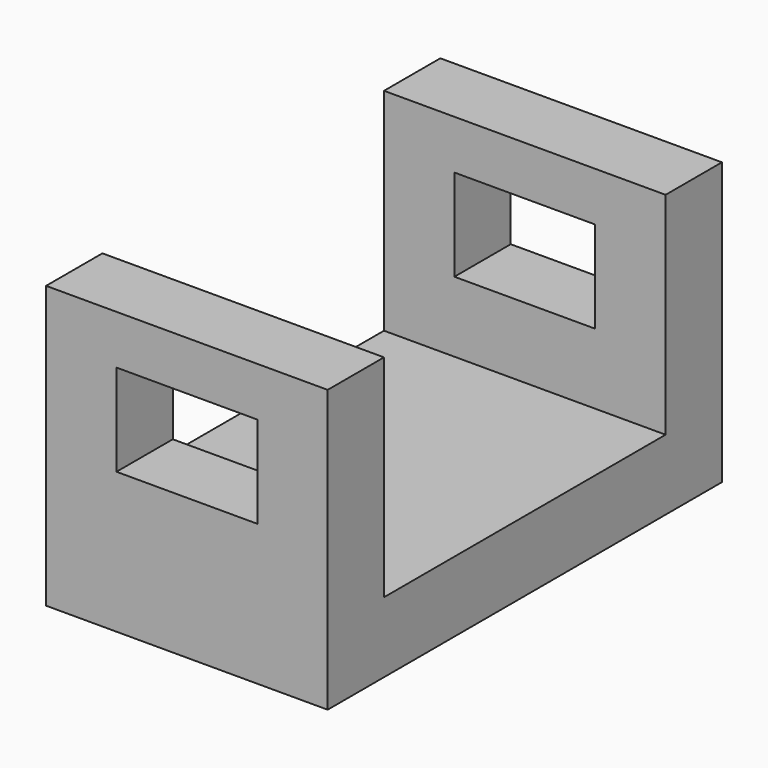
from build123d import *

# Parameters (mm, degrees)
F0_W     = 12.7
F0_H     = 12.7
F0_W_2   = 63.5
F0_H_2   = 38.1
F1_DEPTH = 50.8
F2_W     = 25.4
F2_H     = 16.551355
F3_DEPTH = 88.9


with BuildPart() as f1:
    # F0 (on Right) → F1 (new body)
    with BuildSketch(Plane.YZ):
        with Locations((38.1, 0)):
            Rectangle(F0_W, F0_H)
        Rectangle(F0_W_2, F0_H)
        with Locations((38.1, 25.4)):
            Rectangle(F0_W, F0_H_2)
        with Locations((-38.1, 0)):
            Rectangle(F0_W, F0_H)
        with Locations((-38.1, 25.4)):
            Rectangle(F0_W, F0_H_2)
    extrude(amount=F1_DEPTH)

    # F2 (on face) → F3 (cut)
    with BuildSketch(Plane(origin=(0, 44.45, 0), x_dir=(-1, 0, 0), z_dir=(0, 1, 0))):
        with Locations((-25.4, 27.325677)):
            Rectangle(F2_W, F2_H)
    extrude(amount=-F3_DEPTH, mode=Mode.SUBTRACT)


solid = f1.part
